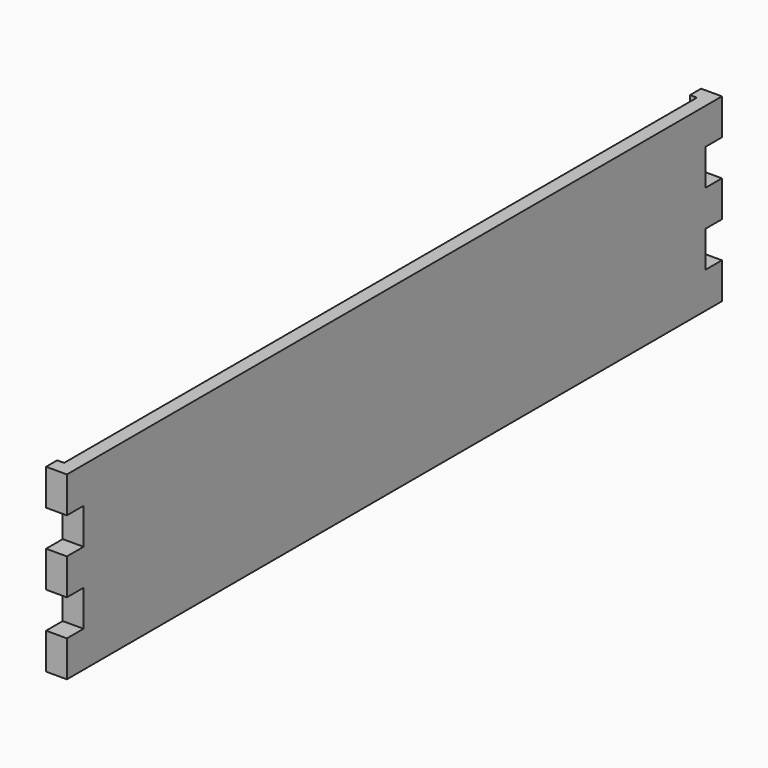
from build123d import *

# Parameters (mm, degrees)
F0_W     = 19.05
F0_H     = 33.02
F1_DEPTH = 19.05
F2_DEPTH = 6.35
F3_DEPTH = 6.35


with BuildPart() as f1:
    # F0 (on Right) → F1 (new body)
    with BuildSketch(Plane.YZ):
        Polygon((-570.548746, 72.287804), (-583.248746, 72.287804), (-583.248746, 39.267804), (-564.198746, 39.267804), (-564.198746, 6.247804), (-564.198746, -26.772196), (-564.198746, -59.792196), (-564.198746, -80.112196), (147.001254, -80.112196), (147.001254, -59.792196), (147.001254, -26.772196), (147.001254, -10.262196), (147.001254, 6.247804), (147.001254, 39.267804), (147.001254, 59.587804), (-564.198746, 59.587804), (-570.548746, 59.587804), align=None)
        Polygon((-564.198746, 72.287804), (-570.548746, 72.287804), (-570.548746, 59.587804), (-564.198746, 59.587804), (147.001254, 59.587804), (153.351254, 59.587804), (153.351254, 72.287804), (147.001254, 72.287804), align=None)
        with Locations((-573.723746, -10.262196)):
            Rectangle(F0_W, F0_H)
        Polygon((166.051254, 72.287804), (153.351254, 72.287804), (153.351254, 59.587804), (147.001254, 59.587804), (147.001254, 39.267804), (166.051254, 39.267804), align=None)
        Polygon((-564.198746, -80.112196), (-564.198746, -59.792196), (-583.248746, -59.792196), (-583.248746, -92.812196), (-570.548746, -92.812196), (-570.548746, -80.112196), align=None)
        Polygon((166.051254, 6.247804), (147.001254, 6.247804), (147.001254, -10.262196), (147.001254, -26.772196), (166.051254, -26.772196), align=None)
        Polygon((147.001254, -80.112196), (-564.198746, -80.112196), (-570.548746, -80.112196), (-570.548746, -92.812196), (-564.198746, -92.812196), (147.001254, -92.812196), (153.351254, -92.812196), (153.351254, -80.112196), align=None)
        Polygon((147.001254, -59.792196), (147.001254, -80.112196), (153.351254, -80.112196), (153.351254, -92.812196), (166.051254, -92.812196), (166.051254, -59.792196), align=None)
    extrude(amount=F1_DEPTH)

    # F0 (on Right) → F2 (cut)
    with BuildSketch(Plane.YZ):
        Polygon((-564.198746, 72.287804), (-570.548746, 72.287804), (-570.548746, 59.587804), (-564.198746, 59.587804), (147.001254, 59.587804), (153.351254, 59.587804), (153.351254, 72.287804), (147.001254, 72.287804), align=None)
    extrude(amount=F2_DEPTH, mode=Mode.SUBTRACT)

    # F0 (on Right) → F3 (cut)
    with BuildSketch(Plane.YZ):
        Polygon((147.001254, -80.112196), (-564.198746, -80.112196), (-570.548746, -80.112196), (-570.548746, -92.812196), (-564.198746, -92.812196), (147.001254, -92.812196), (153.351254, -92.812196), (153.351254, -80.112196), align=None)
    extrude(amount=F3_DEPTH, mode=Mode.SUBTRACT)


solid = f1.part
